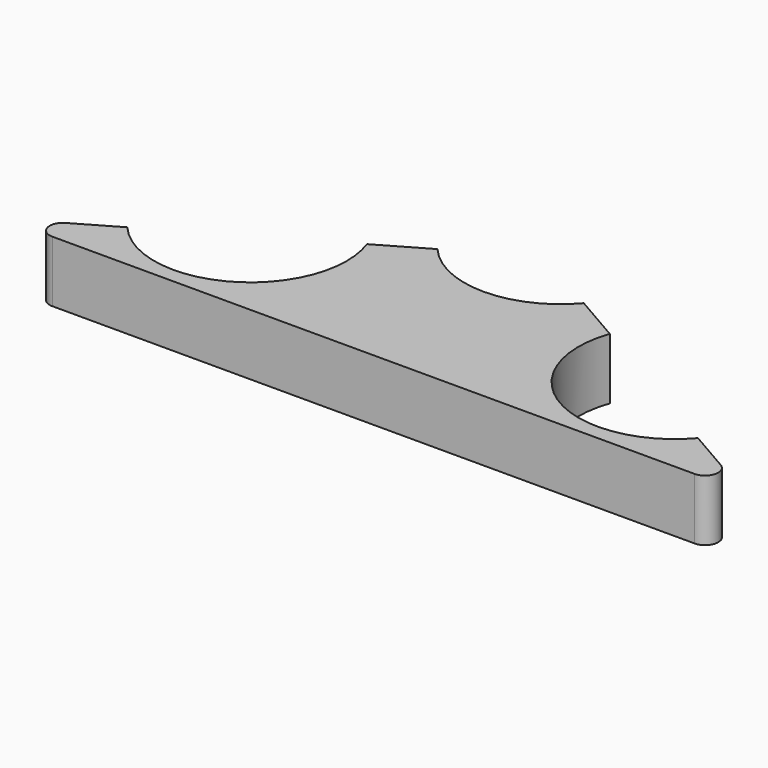
from build123d import *

# Parameters (mm, degrees)
F1_DEPTH = 7
F2_R     = 1.5


with BuildPart() as f1:
    # F0 (on Top) → F1 (new body)
    with BuildSketch(Plane.XY):
        with BuildLine():
            ThreePointArc((8.367497, -7.140378), (0, -11), (-8.367497, -7.140378))
            Line((-8.367497, -7.140378), (-13.881214, -10.323724))
            ThreePointArc((-13.881214, -10.323724), (-13.40799, -12.134855), (-13.248711, -14))
            ThreePointArc((-13.248711, -14), (-20.443614, -24.320912), (-32.616208, -21.140378))
            Line((-32.616208, -21.140378), (-42.30127, -26.732051))
            Line((-42.30127, -26.732051), (42.30127, -26.732051))
            Line((42.30127, -26.732051), (32.616208, -21.140378))
            ThreePointArc((32.616208, -21.140378), (18.748711, -23.526279), (13.881214, -10.323724))
            Line((13.881214, -10.323724), (8.367497, -7.140378))
        make_face()
    extrude(amount=F1_DEPTH)

    # F2
    f2_edges = [f1.edges().sort_by_distance(p)[0] for p in [
        (-42.30127, -26.732051, 3.5),
        (42.30127, -26.732051, 3.5),
    ]]
    fillet(f2_edges, radius=F2_R)


solid = f1.part
